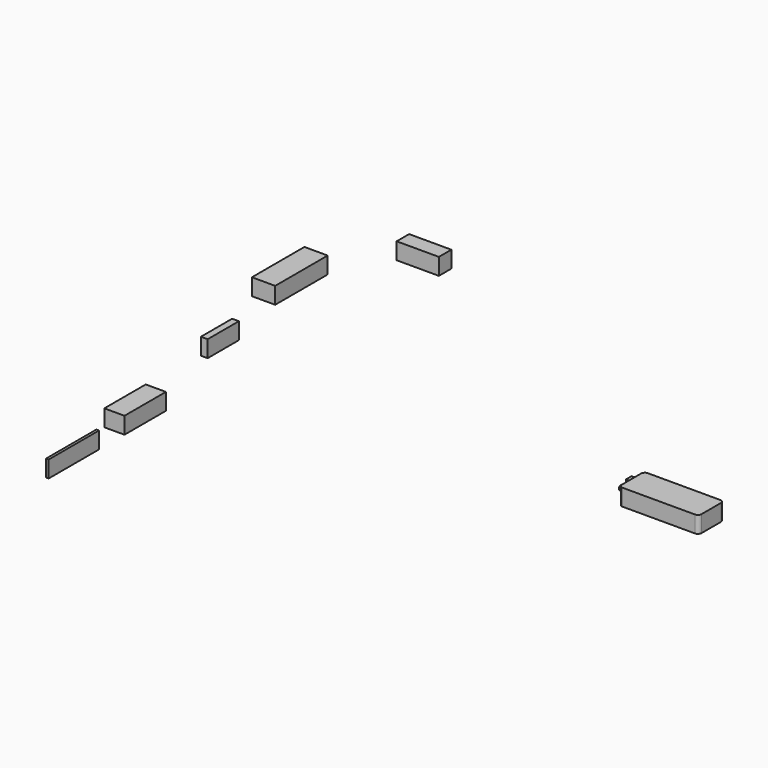
from build123d import *

# Parameters (mm, degrees)
F0_W     = 3.613095
F0_H     = 86.109218
F0_W_2   = 27.591766
F0_H_2   = 70.88902
F0_W_3   = 9.235798
F0_H_3   = 53.438857
F0_W_4   = 31.835885
F0_H_4   = 89.859261
F0_W_5   = 57.824143
F0_H_5   = 21.358143
F0_W_6   = 109.22
F0_H_6   = 43.18
F1_DEPTH = 22.86
F2_R     = 5.08
F3_W     = 9.525
F3_H     = 12.7
F3_R     = 3.175
F4_DEPTH = 9.525


with BuildPart() as f1:
    # F0 (on Top) → F1 (new body)
    with BuildSketch(Plane.XY):
        with Locations((-275.174352, -273.584095)):
            Rectangle(F0_W, F0_H)
        with Locations((-287.163688, -151.534095)):
            Rectangle(F0_W_2, F0_H_2)
        with Locations((-319.2822, 33.686879)):
            Rectangle(F0_W_3, F0_H_3)
        with Locations((-351.429625, 193.521529)):
            Rectangle(F0_W_4, F0_H_4)
        with Locations((-269.639578, 320.920599)):
            Rectangle(F0_W_5, F0_H_5)
        with Locations((296.028173, 37.159165)):
            Rectangle(F0_W_6, F0_H_6)
    extrude(amount=F1_DEPTH)

    # F2
    f2_edges = [f1.edges().sort_by_distance(p)[0] for p in [
        (350.638173, 15.569165, 11.43),
        (350.638173, 58.749165, 11.43),
        (241.418173, 15.569165, 11.43),
        (241.418173, 58.749165, 11.43),
    ]]
    fillet(f2_edges, radius=F2_R)

    # F3 (on face) → F4 (join)
    with BuildSketch(Plane(origin=(241.418173, 0, 0), x_dir=(0, -1, 0), z_dir=(-1, 0, 0))):
        with Locations((-44.461665, 12.065)):
            Rectangle(F3_W, F3_H)
        with Locations((-30.809165, 12.065)):
            Circle(F3_R)
    extrude(amount=F4_DEPTH)


solid = f1.part
